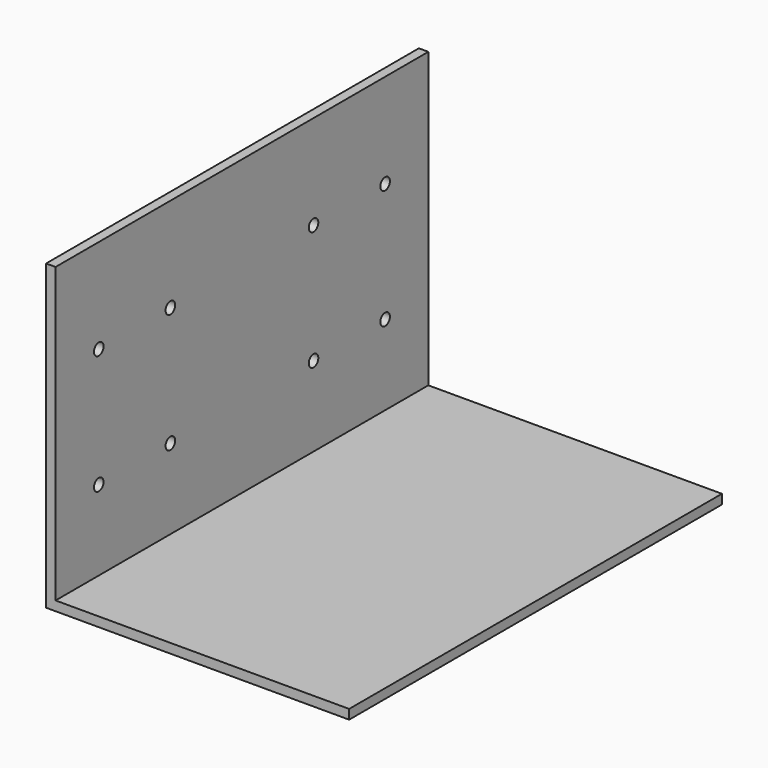
from build123d import *

# Parameters (mm, degrees)
F1_DEPTH = 78.1
F2_R     = 1
F3_DEPTH = 50.801


with BuildPart() as f1:
    # F0 (on Front) → F1 (new body)
    with BuildSketch(Plane.XZ):
        Polygon((0, 50.8), (0, 0), (50.8, 0), (50.8, 1.59), (1.59, 1.59), (1.59, 50.8), align=None)
    extrude(amount=F1_DEPTH)

    # F2 (on Right) → F3 (cut, through all)
    with BuildSketch(Plane.YZ):
        with Locations((-9.05, 15)):
            Circle(F2_R)
        with Locations((-9.05, 35)):
            Circle(F2_R)
        with Locations((-24.05, 35)):
            Circle(F2_R)
        with Locations((-24.05, 15)):
            Circle(F2_R)
        with Locations((-54.05, 15)):
            Circle(F2_R)
        with Locations((-54.05, 35)):
            Circle(F2_R)
        with Locations((-69.05, 35)):
            Circle(F2_R)
        with Locations((-69.05, 15)):
            Circle(F2_R)
    extrude(amount=F3_DEPTH, mode=Mode.SUBTRACT)


solid = f1.part
